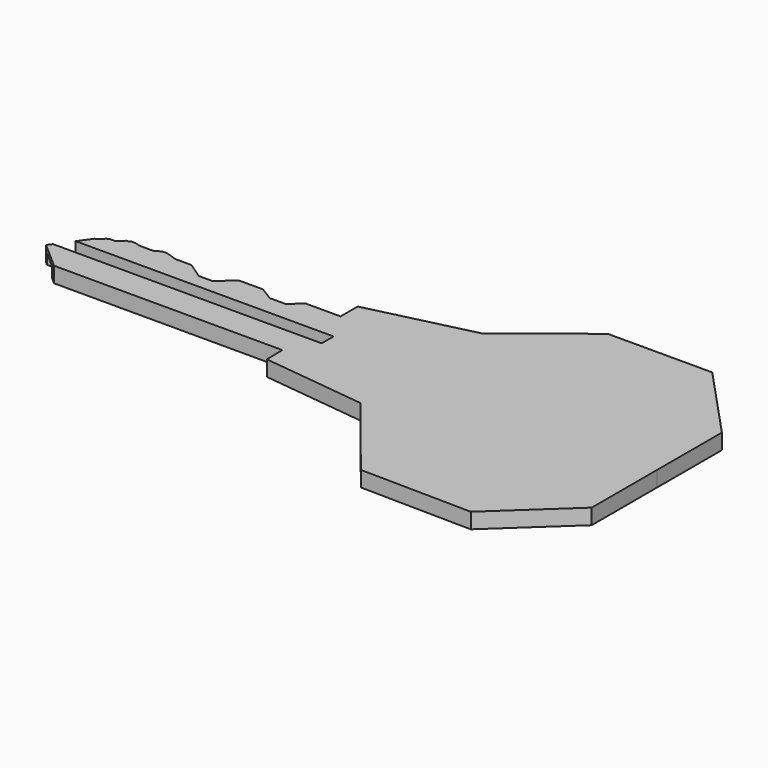
from build123d import *

# Parameters (mm, degrees)
F1_DEPTH = 1.7
F3_DEPTH = 1.15
F5_DEPTH = 1.15
F7_DEPTH = 25
F9_DEPTH = 0.5


with BuildPart() as f1:
    # F0 (on Top) → F1 (new body)
    with BuildSketch(Plane.XY):
        Polygon((3.5258802325, 7.7773156599), (3.5258802325, 5.4234246183), (-20.5959625565, 5.4234246183), (-24.4741197675, 0), (-21.5398941726, -2.5765753817), (3.5258802325, -2.5765753817), (3.563464143, -4.7479634116), (14.9142147576, -6.0714449676), (22.6833798525, -15.7455861511), (34.9059272557, -15.9271247482), (42.5230842084, -8.8459979743), (42.5230842084, 0.111364905), (42.5323378295, 9.0101445094), (34.9059272557, 17.2138623893), (23.4355190769, 17.2138623893), (14.9758500308, 10.5328802019), align=None)
    extrude(amount=F1_DEPTH)

    # F2 (on face) → F3 (cut)
    with BuildSketch(Plane(origin=(0, 0, 0), x_dir=(1, 0, 0), z_dir=(0, 0, -1))):
        Polygon((-24.1591534096, 0.2765753817), (4.3114135042, 0.2765753817), (3.8650040515, 1.9765753817), (-22.2231791909, 1.9765753817), align=None)
        Polygon((-26.6171693802, 0.2765753817), (-24.1591534096, 0.2765753817), (-22.2231791909, 1.9765753817), (-25.9880051017, 1.9765753817), align=None)
    extrude(amount=-F3_DEPTH, mode=Mode.SUBTRACT)

    # F4 (on face) → F5 (cut)
    with BuildSketch(Plane.XY.offset(1.7)):
        Polygon((5.3927684203, 2.1434246183), (-25.6233029068, 2.1434246183), (-26.0389186442, 0.5034246183), (5.3698872216, 0.5034246183), align=None)
    extrude(amount=-F5_DEPTH, mode=Mode.SUBTRACT)

    # F6 (on face) → F7 (cut)
    with BuildSketch(Plane.XY.offset(1.7)):
        Polygon((-5.3833839484, 6.7872931249), (-0.3340959956, 5.4234246183), (0, 7.7773156599), (-22.1384502947, 7.9461717978), (-23.2389890977, 4.8430952587), (-21.9463394889, 3.5349845421), (-20.9003388882, 6.0035409406), align=None)
        Polygon((-1.5771881219, 4.2808800936), (-0.3340959956, 5.4234246183), (-20.5959625565, 5.4234246183), (-21.9463394889, 3.5349845421), (-21.7945538461, 3.5349845421), (-21.1666878313, 4.1554295458), (-20.8302091438, 4.2808800936), (-20.3477170239, 4.2808800936), (-20.2410556376, 4.3186801486), (-19.5979364216, 4.9228575081), (-19.3608161062, 4.9228575081), (-19.184730947, 5.074087996), (-18.6641020609, 5.074087996), (-18.2254650205, 4.9228575081), (-16.9939434519, 4.8885419965), (-16.5155499687, 4.9228575081), (-15.9821361303, 5.2939280868), (-15.3820421547, 5.2939280868), (-14.1877273184, 4.8885419965), (-12.4018825591, 4.8885419965), (-10.6601839463, 3.6888930481), (-9.1968299821, 3.6888930481), (-7.4136951007, 5.1924162544), (-4.8006242141, 5.1924162544), (-3.3421660773, 4.2808800936), align=None)
    extrude(amount=-F7_DEPTH, mode=Mode.SUBTRACT)

    # F8 (on face) → F9 (cut)
    with BuildSketch(Plane(origin=(0, 0, 0), x_dir=(1, 0, 0), z_dir=(0, 0, -1))):
        Polygon((4.9785347655, -5.9697870165), (4.9301558991, -2.4234246183), (-25.2411490917, -2.4234246183), (-25.5858246237, -5.4234246183), align=None)
    extrude(amount=-F9_DEPTH, mode=Mode.SUBTRACT)


solid = f1.part
